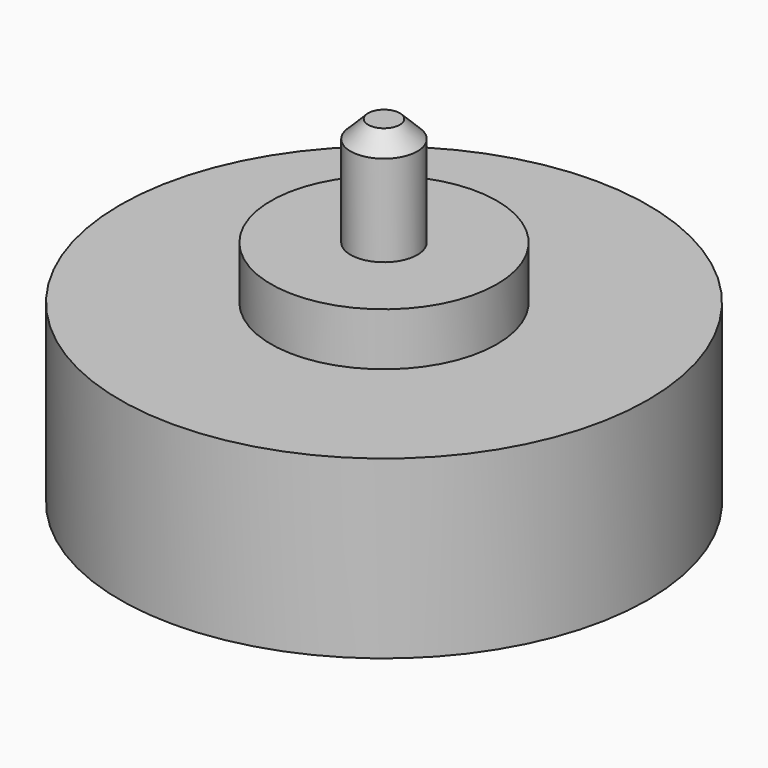
from build123d import *

# Parameters (mm, degrees)
F2_SIZE = 1.27


with BuildPart() as f1:
    # F0 (on Front) → F1 (revolve)
    with BuildSketch(Plane.XZ):
        Polygon((2.54, 0), (19.05, 0), (19.05, 12.7), (8.1534, 12.7), (8.1534, 16.51), (2.413, 16.51), (2.413, 24.3586), (0, 24.3586), (0, 16.51), (0, 7.874), (2.54, 7.874), align=None)
    revolve(axis=Axis((0, 0, 12.192), (0, 0, -1)))

    # F2
    f2_edges = [f1.edges().sort_by_distance(p)[0] for p in [
        (-2.413, 0, 24.3586),
    ]]
    chamfer(f2_edges, length=F2_SIZE)


solid = f1.part
